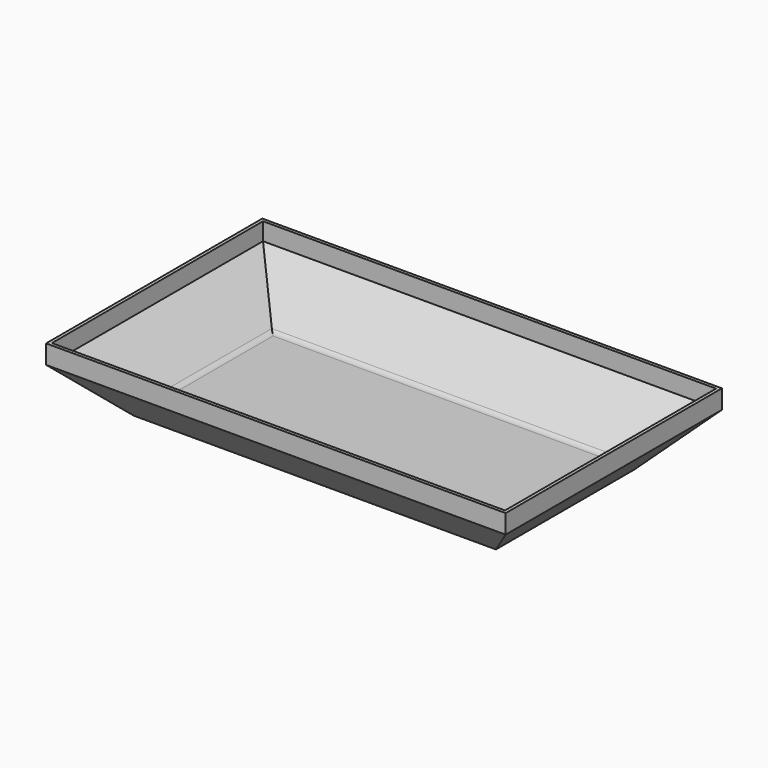
from build123d import *

# Parameters (mm, degrees)
F1_W     = 170
F1_H     = 100
F2_DEPTH = 25
F3_SIZE  = 18
F4_T     = -1.2
F5_R     = 3


with BuildPart() as f2:
    # F1 (on offset) → F2 (new body)
    with BuildSketch(Plane.XY.offset(25)):
        with Locations((0, -50)):
            Rectangle(F1_W, F1_H)
    extrude(amount=-F2_DEPTH)

    # F3
    f3_edges = [f2.edges().sort_by_distance(p)[0] for p in [
        (0, -100, 0),
        (85, -50, 0),
        (0, 0, 0),
        (-85, -50, 0),
    ]]
    chamfer(f3_edges, length=F3_SIZE)

    # F4
    f4_openings = [f2.faces().sort_by_distance(p)[0] for p in [
        (0, -50, 25),
    ]]
    offset(amount=F4_T, openings=f4_openings)

    # F5
    f5_edges = [f2.edges().sort_by_distance(p)[0] for p in [
        (0, -81.502944, 1.2),
        (66.502944, -50, 1.2),
        (0, -18.497056, 1.2),
        (-66.502944, -50, 1.2),
    ]]
    fillet(f5_edges, radius=F5_R)


solid = f2.part
